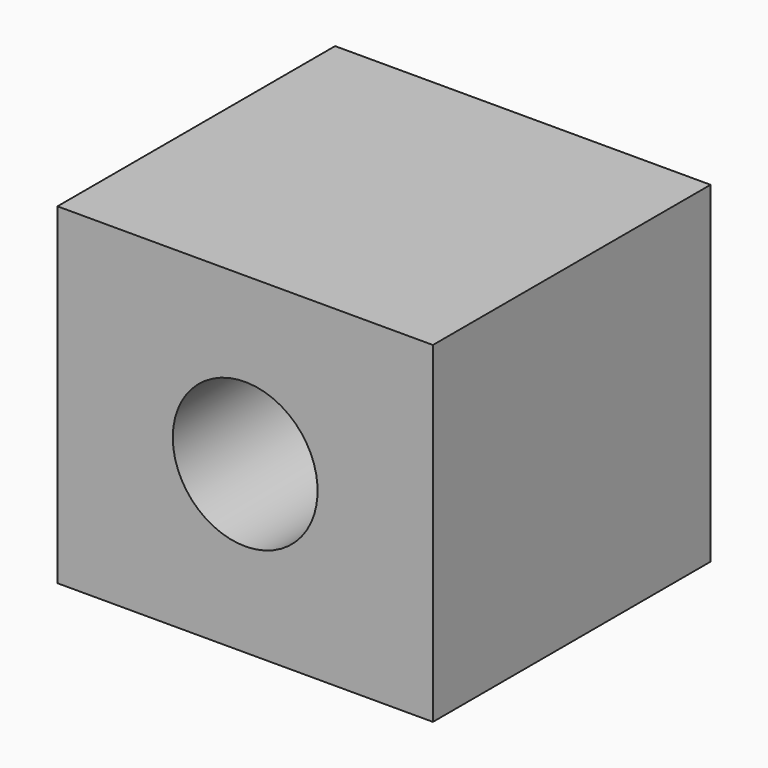
from build123d import *

# Parameters (mm, degrees)
F0_W     = 65.84879
F0_H     = 58.198094
F1_DEPTH = 60.86109
F4_D     = 25.4


with BuildPart() as f1:
    # F0 (on Front) → F1 (new body)
    with BuildSketch(Plane.XZ):
        Rectangle(F0_W, F0_H)
    extrude(amount=F1_DEPTH)

    # F4 (through all)
    with Locations(Plane.XZ.offset(60.86109)):
        with Locations((0, 0)):
            Hole(F4_D / 2)


solid = f1.part
